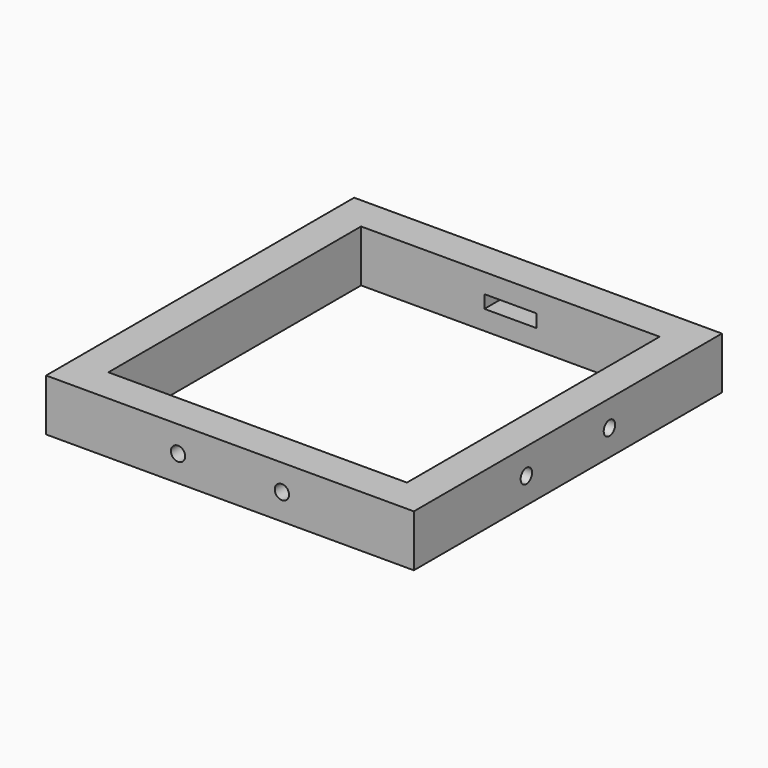
from build123d import *

# Parameters (mm, degrees)
F0_W     = 425
F0_H     = 445
F0_W_2   = 345
F0_H_2   = 365
F1_DEPTH = 30
F2_R     = 8.25
F3_DEPTH = 80
F4_R     = 8.25
F5_DEPTH = 80
F6_W     = 60
F6_H     = 15
F7_DEPTH = 80


with BuildPart() as f1:
    # F0 (on Top) → F1 (new body, symmetric)
    with BuildSketch(Plane.XY):
        Rectangle(F0_W, F0_H)
        Rectangle(F0_W_2, F0_H_2, mode=Mode.SUBTRACT)
    extrude(amount=F1_DEPTH, both=True)

    # F2 (on face) → F3 (cut)
    with BuildSketch(Plane.XZ.offset(222.5)):
        with Locations((-60, 0)):
            Circle(F2_R)
        with Locations((60, 0)):
            Circle(F2_R)
    extrude(amount=-F3_DEPTH, mode=Mode.SUBTRACT)

    # F4 (on face) → F5 (cut)
    with BuildSketch(Plane.YZ.offset(212.5)):
        with Locations((60, 0)):
            Circle(F4_R)
        with Locations((-60, 0)):
            Circle(F4_R)
    extrude(amount=-F5_DEPTH, mode=Mode.SUBTRACT)

    # F6 (on face) → F7 (cut)
    with BuildSketch(Plane(origin=(0, 222.5, 0), x_dir=(-1, 0, 0), z_dir=(0, 1, 0))):
        Rectangle(F6_W, F6_H)
    extrude(amount=-F7_DEPTH, mode=Mode.SUBTRACT)


solid = f1.part
